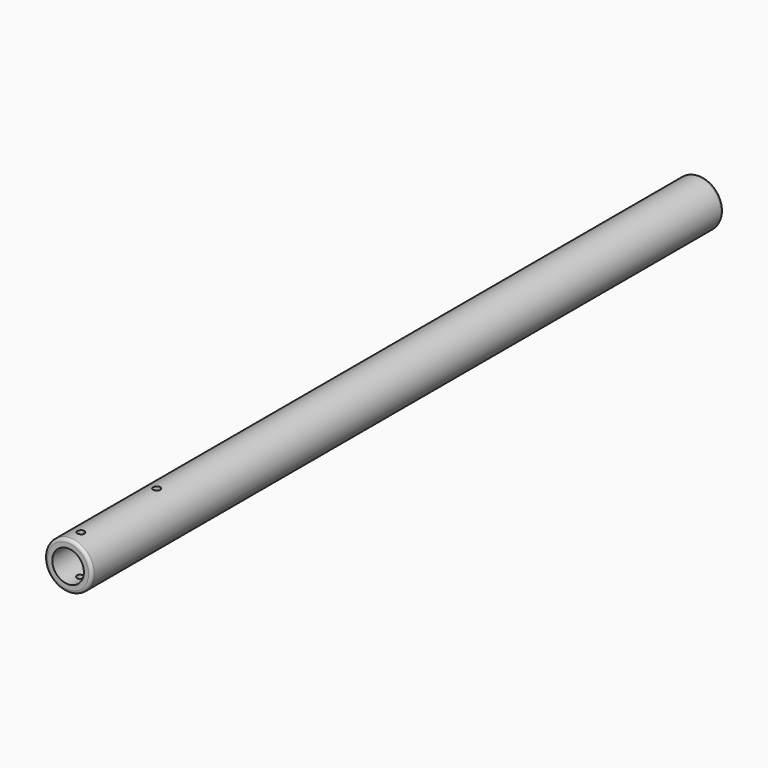
from build123d import *

# Parameters (mm, degrees)
F0_R     = 38.1
F1_DEPTH = 1270
F2_R     = 25.4
F3_DEPTH = 1270.001
F4_R     = 5.08
F6_DEPTH = 38.1


with BuildPart() as f1:
    # F0 (on Front) → F1 (new body)
    with BuildSketch(Plane.XZ):
        Circle(F0_R)
    extrude(amount=-F1_DEPTH)

    # F2 (on face) → F3 (cut, through all)
    with BuildSketch(Plane.XZ):
        Circle(F2_R)
    extrude(amount=-F3_DEPTH, mode=Mode.SUBTRACT)

    # F4
    f4_edges = [f1.edges().sort_by_distance(p)[0] for p in [
        (-38.1, 0, 0),
        (-38.1, 1270, 0),
    ]]
    fillet(f4_edges, radius=F4_R)

    # F5 (on Top) → F6 (cut, symmetric)
    with BuildSketch(Plane.XY):
        with BuildLine():
            ThreePointArc((0, 172.085), (4.041115, 173.758885), (5.715, 177.8))
            ThreePointArc((5.715, 177.8), (-4.041115, 181.841115), (0, 172.085))
        make_face()
        with BuildLine():
            ThreePointArc((5.715, 25.4), (4.041115, 29.441115), (0, 31.115))
            ThreePointArc((0, 31.115), (-5.715, 25.4), (0, 19.685))
            ThreePointArc((0, 19.685), (4.041115, 21.358885), (5.715, 25.4))
        make_face()
    extrude(amount=F6_DEPTH, both=True, mode=Mode.SUBTRACT)


solid = f1.part
